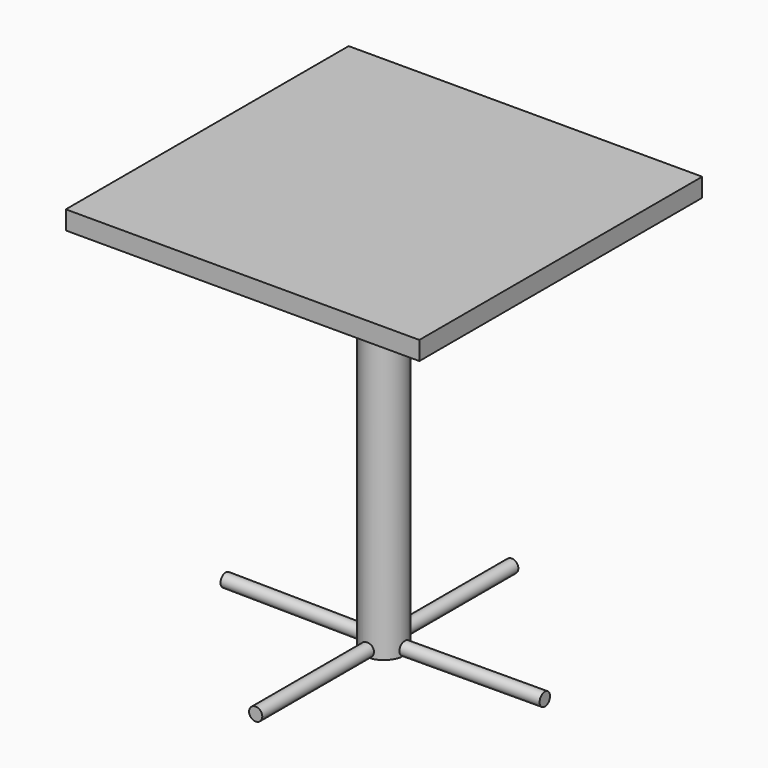
from build123d import *

# Parameters (mm, degrees)
F0_W      = 48.26
F0_H      = 48.26
F1_DEPTH  = 2.54
F2_W      = 12.7
F2_H      = 12.7
F3_DEPTH  = 1.27
F4_R      = 2.8715074031
F5_DEPTH  = 50.8
F6_R      = 0.3093193385
F6_R_2    = 0.3272888375
F6_R_3    = 0.3568571673
F6_R_4    = 0.3525339216
F7_DEPTH  = 0.762
F8_R      = 0.254
F12_W     = 0.0615678008
F12_H     = 0.0203329791
F12_W_2   = 0.0220249466
F12_H_2   = 0.0622902502
F11_W     = 0.0480206565
F11_H     = 0.0132349783
F11_W_2   = 0.0138029049
F11_H_2   = 0.0482696602
F10_W     = 0.0884033393
F10_H     = 0.017505979
F10_W_2   = 0.0194820769
F10_H_2   = 0.0892982516
F9_W      = 0.0940955169
F9_H      = 0.0154326007
F9_W_2    = 0.0169436104
F9_H_2    = 0.0947913842
F13_DEPTH = 0.508
F15_DEPTH = 1.41478
F16_R     = 0.9021855569
F17_DEPTH = 19.05
F19_DEPTH = 1.016
F20_R     = 0.8982139902
F21_DEPTH = 19.05
F23_DEPTH = 1.27
F24_R     = 0.9025250594
F25_DEPTH = 19.05
F27_DEPTH = 1.19634
F28_R     = 0.8978475469
F29_DEPTH = 19.05


with BuildPart() as f1:
    # F0 (on Top) → F1 (new body)
    with BuildSketch(Plane.XY):
        Rectangle(F0_W, F0_H)
    extrude(amount=F1_DEPTH)

    # F2 (on face) → F3 (join)
    with BuildSketch(Plane(origin=(0, 0, 0), x_dir=(1, 0, 0), z_dir=(0, 0, -1))):
        Rectangle(F2_W, F2_H)
    extrude(amount=F3_DEPTH)

    # F4 (on face) → F5 (join)
    with BuildSketch(Plane(origin=(0, 0, -1.27), x_dir=(1, 0, 0), z_dir=(0, 0, -1))):
        with Locations((0.0108288368, 0.0445277688)):
            Circle(F4_R)
    extrude(amount=F5_DEPTH)

    # F6 (on face) → F7 (join)
    with BuildSketch(Plane(origin=(0, 0, -1.27), x_dir=(1, 0, 0), z_dir=(0, 0, -1))):
        with Locations((-5.7706111111, 5.6873215362)):
            Circle(F6_R)
        with Locations((-5.7180044241, -5.6720911525)):
            Circle(F6_R_2)
        with Locations((5.6732143275, -5.739856977)):
            Circle(F6_R_3)
        with Locations((5.6450250559, 5.5452911183)):
            Circle(F6_R_4)
    extrude(amount=F7_DEPTH)

    # F8
    f8_edges = [f1.edges().sort_by_distance(p)[0] for p in [
        (-6.07993, -5.687322, -2.032),
        (5.316357, 5.739857, -2.032),
        (-6.045293, 5.672091, -2.032),
        (5.292491, -5.545291, -2.032),
    ]]
    fillet(f8_edges, radius=F8_R)

    # F12 (on face) + F11 (on face) + F10 (on face) + F9 (on face) → F13 (cut)
    with BuildSketch(Plane(origin=(0, 0, -2.032), x_dir=(1, 0, 0), z_dir=(0, 0, -1))):
        with Locations((-5.6762080504, -5.6720911525)):
            Rectangle(F12_W, F12_H)
        with Locations((-5.7180044241, -5.7134027672)):
            Rectangle(F12_W_2, F12_H_2)
        with Locations((-5.7180044241, -5.6720911525)):
            Rectangle(F12_W_2, F12_H)
        with Locations((-5.7598007978, -5.6720911525)):
            Rectangle(F12_W, F12_H)
        with Locations((-5.7180044241, -5.6307795379)):
            Rectangle(F12_W_2, F12_H_2)
    with BuildSketch(Plane(origin=(0, 0, -2.032), x_dir=(1, 0, 0), z_dir=(0, 0, -1))):
        with Locations((-5.8015228918, 5.6873215362)):
            Rectangle(F11_W, F11_H)
        with Locations((-5.7396993304, 5.6873215362)):
            Rectangle(F11_W, F11_H)
        with Locations((-5.7706111111, 5.6873215362)):
            Rectangle(F11_W_2, F11_H)
        with Locations((-5.7706111111, 5.656569217)):
            Rectangle(F11_W_2, F11_H_2)
        with Locations((-5.7706111111, 5.7180738555)):
            Rectangle(F11_W_2, F11_H_2)
    with BuildSketch(Plane(origin=(0, 0, -2.032), x_dir=(1, 0, 0), z_dir=(0, 0, -1))):
        with Locations((5.6989677639, 5.5452911183)):
            Rectangle(F10_W, F10_H)
        with Locations((5.6450250559, 5.491889003)):
            Rectangle(F10_W_2, F10_H_2)
        with Locations((5.6450250559, 5.5452911183)):
            Rectangle(F10_W_2, F10_H)
        with Locations((5.5910823478, 5.5452911183)):
            Rectangle(F10_W, F10_H)
        with Locations((5.6450250559, 5.5986932336)):
            Rectangle(F10_W_2, F10_H_2)
    with BuildSketch(Plane(origin=(0, 0, -2.032), x_dir=(1, 0, 0), z_dir=(0, 0, -1))):
        with Locations((5.7287338912, -5.739856977)):
            Rectangle(F9_W, F9_H)
        with Locations((5.6732143275, -5.7949689694)):
            Rectangle(F9_W_2, F9_H_2)
        with Locations((5.6732143275, -5.739856977)):
            Rectangle(F9_W_2, F9_H)
        with Locations((5.6176947639, -5.739856977)):
            Rectangle(F9_W, F9_H)
        with Locations((5.6732143275, -5.6847449846)):
            Rectangle(F9_W_2, F9_H_2)
    extrude(amount=-F13_DEPTH, mode=Mode.SUBTRACT)

    # F14 (on face) → F15 (cut)
    with BuildSketch(Plane(origin=(0, 0, -52.07), x_dir=(1, 0, 0), z_dir=(0, 0, -1))):
        Polygon((0, 3.2037144993), (-0.6241711632, 2.8449437675), (0.6458288368, 2.8449437675), align=None)
    extrude(amount=-F15_DEPTH, mode=Mode.SUBTRACT)

    # F16 (on face) → F17 (join)
    with BuildSketch(Plane.XZ.offset(2.8449437675)):
        with Locations((0, -51.1687509716)):
            Circle(F16_R)
    extrude(amount=F17_DEPTH)

    # F18 (on face) → F19 (cut)
    with BuildSketch(Plane(origin=(0, 0, -52.07), x_dir=(1, 0, 0), z_dir=(0, 0, -1))):
        Polygon((3.0578877777, 0), (2.8145416692, 0.6648092527), (2.8078707354, -0.6051732269), align=None)
    extrude(amount=-F19_DEPTH, mode=Mode.SUBTRACT)

    # F20 (on face) → F21 (join)
    with BuildSketch(Plane(origin=(2.8109720156, 0.0147654072, 0), x_dir=(-0.0052527038, 0.9999862045, 0), z_dir=(0.9999862045, 0.0052527038, 0))):
        with Locations((0, -51.2162931263)):
            Circle(F20_R)
    extrude(amount=F21_DEPTH)

    # F22 (on face) → F23 (cut)
    with BuildSketch(Plane(origin=(0, 0, -52.07), x_dir=(1, 0, 0), z_dir=(0, 0, -1))):
        Polygon((0.6786663537, -2.7482392851), (-0.6570086801, -2.7482392851), (0, -2.9700854793), align=None)
    extrude(amount=-F23_DEPTH, mode=Mode.SUBTRACT)

    # F24 (on face) → F25 (join)
    with BuildSketch(Plane(origin=(0, 2.7482392851, 0), x_dir=(-1, 0, 0), z_dir=(0, 1, 0))):
        with Locations((0, -51.1333122849)):
            Circle(F24_R)
    extrude(amount=F25_DEPTH)

    # F26 (on face) → F27 (cut)
    with BuildSketch(Plane(origin=(0, 0, -52.07), x_dir=(1, 0, 0), z_dir=(0, 0, -1))):
        Polygon((-2.8074634724, -0.5057296489), (-2.8154312504, 0), (-2.8233990284, 0.5057296489), (-2.9956893995, 0), align=None)
    extrude(amount=-F27_DEPTH, mode=Mode.SUBTRACT)

    # F28 (on face) → F29 (join)
    with BuildSketch(Plane(origin=(-2.8147325761, 0.0443461527, 0), x_dir=(-0.0157530595, -0.9998759129, 0), z_dir=(-0.9998759129, 0.0157530595, 0))):
        with Locations((0, -51.189865917)):
            Circle(F28_R)
    extrude(amount=F29_DEPTH)


solid = f1.part
